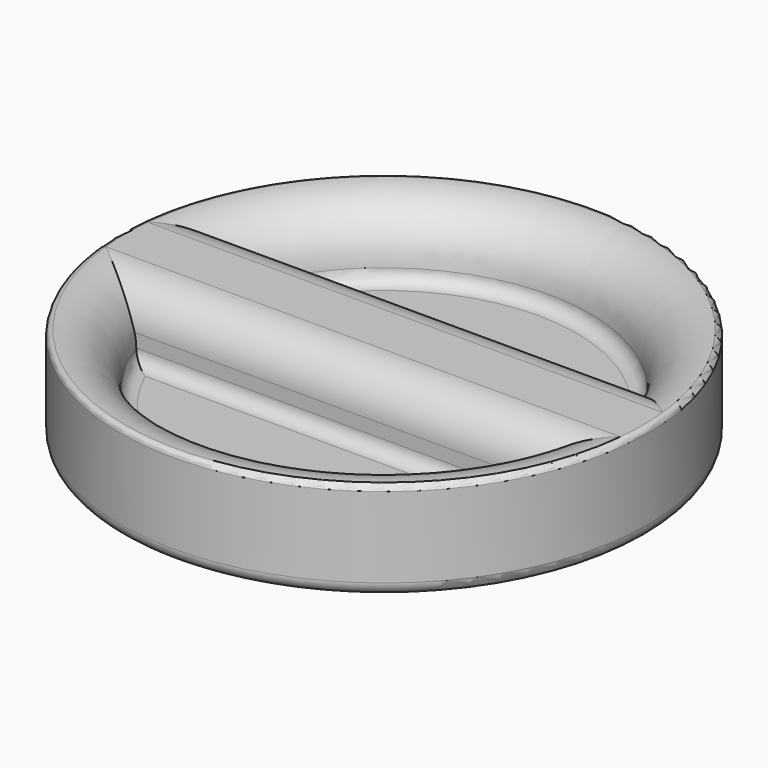
from build123d import *

# Parameters (mm, degrees)
PAD_DEPTH         = 19.5999997669
SKETCH003_R       = 39.1999995338
SKETCH003_R_2     = 19.5999997669
POCKET_DEPTH      = 0.001
POCKET_DEPTH_BACK = 7.501
HOLE_D            = 6
HOLE_DEPTH        = 6.5
HOLE_CSINK_D      = 6.5
HOLE_CSINK_ANGLE  = 90


with BuildPart() as part:
    # Sketch002 → Pad (new body, symmetric)
    with BuildSketch(Plane.YZ):
        with BuildLine():
            Line((-6, 2.5), (6, 2.5))
            ThreePointArc((5, 3.5), (5.2928932188, 2.7928932188), (6, 2.5))
            Line((5, 3.5), (5, 4.5))
            ThreePointArc((5, 4.5), (4.1213203436, 6.6213203436), (2, 7.5))
            Line((-2, 7.5), (2, 7.5))
            ThreePointArc((-2, 7.5), (-4.1213203436, 6.6213203436), (-5, 4.5))
            Line((-5, 3.5), (-5, 4.5))
            ThreePointArc((-6, 2.5), (-5.2928932188, 2.7928932188), (-5, 3.5))
        make_face()
    extrude(amount=PAD_DEPTH, both=True)

    # Sketch003 → Pocket (cut, two sides)
    with BuildSketch(Plane.XY) as pocket_sk:
        Circle(SKETCH003_R)
        Circle(SKETCH003_R_2, mode=Mode.SUBTRACT)
    extrude(amount=-POCKET_DEPTH, mode=Mode.SUBTRACT)
    extrude(pocket_sk.sketch, amount=POCKET_DEPTH_BACK, mode=Mode.SUBTRACT)

    # Sketch → Revolution (revolve)
    with BuildSketch(Plane.XZ):
        with BuildLine():
            ThreePointArc((19.5999997669, 7.5), (16.771574149, 6.3284263007), (15.6000020978, 3.5))
            ThreePointArc((14.6000020978, 2.5), (15.307108879, 2.7928932188), (15.6000020978, 3.5))
            Line((14.6000020978, 2.5), (0, 2.5))
            Line((0, 2.5), (0, 0))
            Line((14.6270166538, 0), (0, 0))
            ThreePointArc((18.5, 0), (16.5635083269, 1.5), (14.6270166538, 0))
            Line((18.5, 0), (19, 0))
            ThreePointArc((19, 0), (19.7071067812, 0.2928932188), (20, 1))
            Line((20, 7.1), (20, 1))
            ThreePointArc((20, 7.1), (19.8828426301, 7.3828427949), (19.5999997669, 7.5))
        make_face()
    revolve(axis=Axis((0, 0, 0), (0, 0, 1)))

    # Hole
    with Locations(Plane(origin=(0, 0, 0), x_dir=(1, 0, 0), z_dir=(0, 0, -1))):
        with Locations((0, 0)):
            CounterSinkHole(HOLE_D / 2, HOLE_CSINK_D / 2, depth=HOLE_DEPTH, counter_sink_angle=HOLE_CSINK_ANGLE)


solid = part.part
